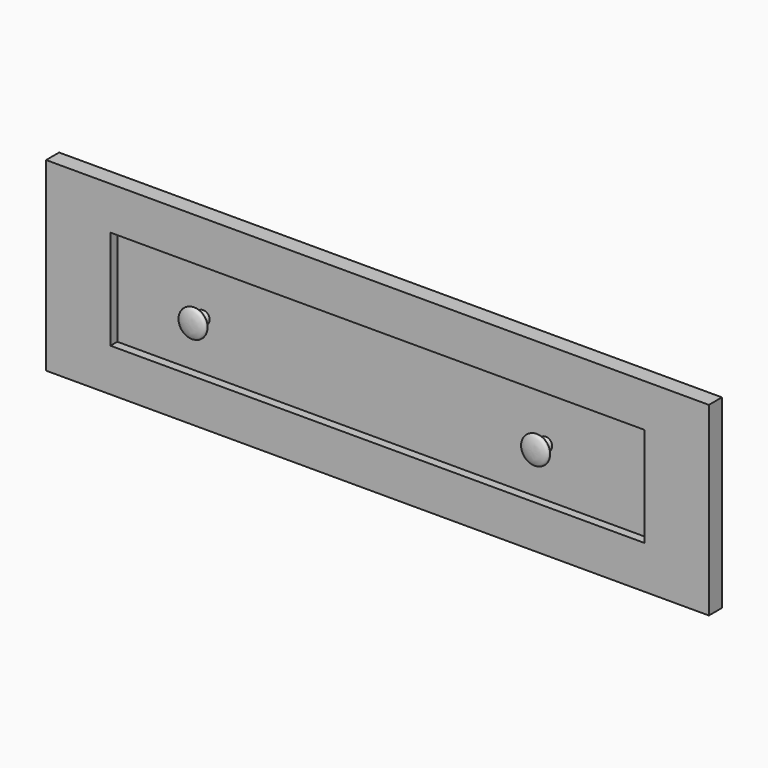
from build123d import *

# Parameters (mm, degrees)
CLONE2D004_W    = 772
CLONE2D004_H    = 216
PAD012_DEPTH    = 19
SKETCH029_W     = 622
SKETCH029_H     = 116
POCKET012_DEPTH = 10


with BuildPart() as part:
    # Clone2D004 → Pad012 (new body)
    with BuildSketch(Plane.XZ):
        with Locations((386, 108)):
            Rectangle(CLONE2D004_W, CLONE2D004_H)
    extrude(amount=PAD012_DEPTH)

    # Sketch029 (on Face6 of Pad012) → Pocket012 (cut)
    with BuildSketch(Plane.XZ.offset(19)):
        with Locations((386, 108)):
            Rectangle(SKETCH029_W, SKETCH029_H)
    extrude(amount=-POCKET012_DEPTH, mode=Mode.SUBTRACT)

    # Clone2D005 → Revolution002 (revolve)
    with BuildSketch(Plane(origin=(175, -9, 107.5), x_dir=(1, 0, 0), z_dir=(0, 0, 1))):
        with BuildLine():
            Line((0, 0), (0, -20))
            add(Edge.make_bspline(
                [(0, -20), (-18, -20), (-18, -9.133286), (-4.506424, -9.133286), (-7.5, 0)],
                knots=[0, 0, 0, 0, 0.5, 1, 1, 1, 1], degree=3, weights=[7, 6.116989, 5.810816, 6.060123, 5.999522]))
            Line((-7.5, 0), (0, 0))
        make_face()
    revolve(axis=Axis((175, -9, 107.5), (0, 1, 0)))

    # Clone2D006 → Revolution003 (revolve)
    with BuildSketch(Plane(origin=(574, -9, 107.5), x_dir=(1, 0, 0), z_dir=(0, 0, 1))):
        with BuildLine():
            Line((0, 0), (0, -20))
            add(Edge.make_bspline(
                [(0, -20), (-18, -20), (-18, -9.133286), (-4.506424, -9.133286), (-7.5, 0)],
                knots=[0, 0, 0, 0, 0.5, 1, 1, 1, 1], degree=3, weights=[7, 6.116989, 5.810816, 6.060123, 5.999522]))
            Line((-7.5, 0), (0, 0))
        make_face()
    revolve(axis=Axis((574, -9, 107.5), (0, 1, 0)))


with BuildPart() as part_1:
    # Body012 placement: moved
    add(part.part.moved(Location((394, 0, 10))))


with BuildPart() as part_2:
    # Clone placement: moved
    add(part_1.part.moved(Location((-393, 0, -10))))


with BuildPart() as part_3:
    # Body013 placement: moved
    add(part_2.part.moved(Location((394, 0, 454))))


solid = part_3.part
